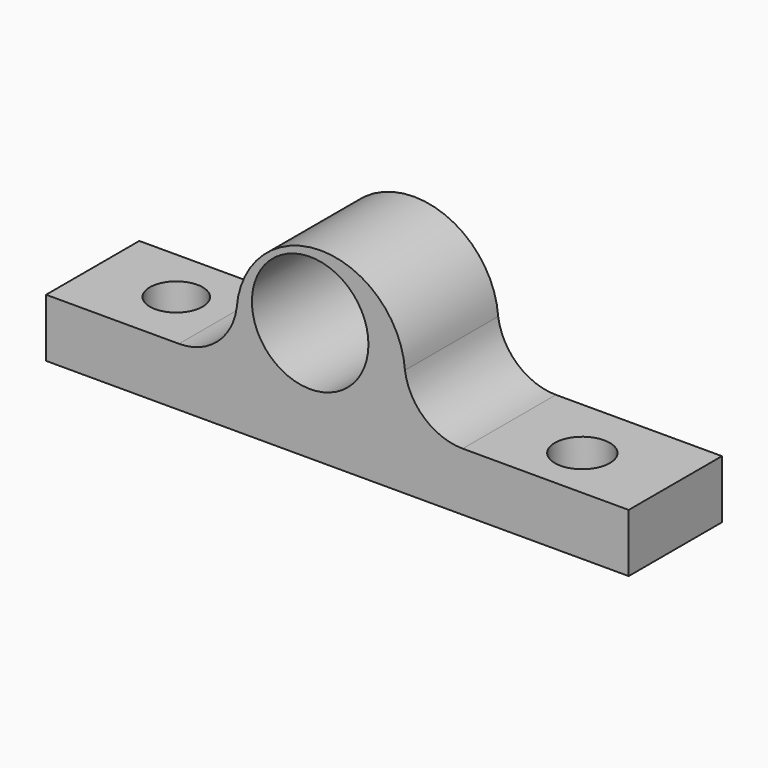
from build123d import *

# Parameters (mm, degrees)
F0_R     = 12.7
F1_DEPTH = 25.4
F2_R     = 5.754427
F4_DEPTH = 25.4
F3_R     = 5.992973
F5_DEPTH = 25.4


with BuildPart() as f1:
    # F0 (on Front) → F1 (new body)
    with BuildSketch(Plane.XZ):
        with BuildLine():
            Line((-33.539512, -9.618156), (-62.502647, -9.618156))
            Line((-62.502647, -9.618156), (-62.502647, -22.318156))
            Line((-62.502647, -22.318156), (64.497353, -22.318156))
            Line((64.497353, -22.318156), (64.497353, -9.618156))
            Line((64.497353, -9.618156), (28.306579, -9.618156))
            ThreePointArc((28.306579, -9.618156), (19.970903, -6.499727), (15.728804, 1.324127))
            ThreePointArc((15.728804, 1.324127), (-2.616467, 18.350258), (-20.961737, 1.324127))
            ThreePointArc((-20.961737, 1.324127), (-25.203836, -6.499727), (-33.539512, -9.618156))
        make_face()
        with Locations((-4.936342, 3.67939)):
            Circle(F0_R, mode=Mode.SUBTRACT)
    extrude(amount=F1_DEPTH)

    # F2 (on face) → F4 (cut)
    with BuildSketch(Plane.XY.offset(-9.618156)):
        with Locations((-44.681605, -12.206142)):
            Circle(F2_R)
    extrude(amount=-F4_DEPTH, mode=Mode.SUBTRACT)

    # F3 (on face) → F5 (cut)
    with BuildSketch(Plane.XY.offset(-9.618156)):
        with Locations((45.22102, -13.935037)):
            Circle(F3_R)
    extrude(amount=-F5_DEPTH, mode=Mode.SUBTRACT)


solid = f1.part
